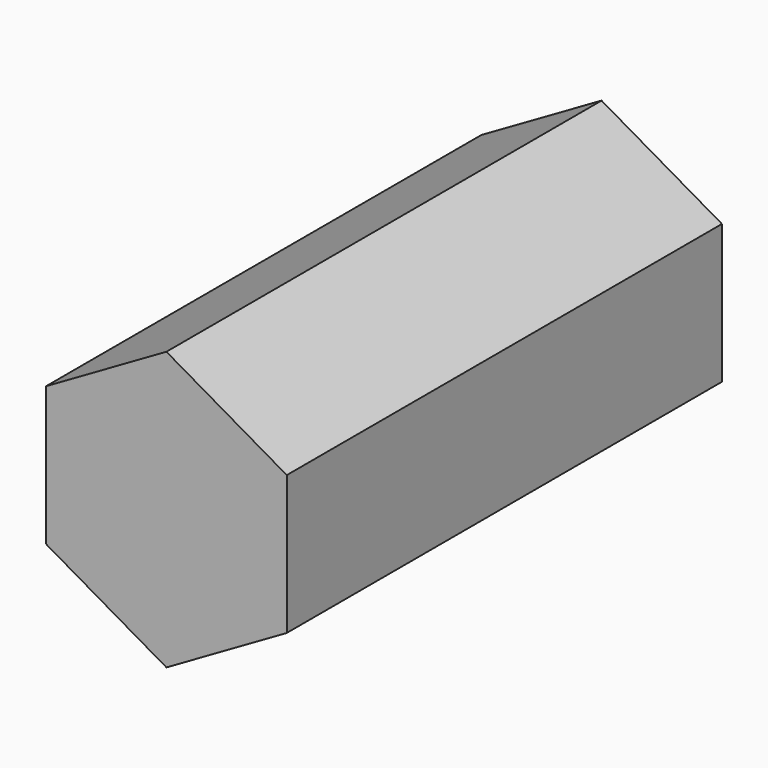
from build123d import *

# Parameters (mm, degrees)
F1_DEPTH = 25.4
F2_DEPTH = 127


with BuildPart() as f1:
    # F0 (on Front) → F1 (new body)
    with BuildSketch(Plane.XZ):
        Polygon((-33.718813, 19.467566), (-33.718813, -19.467566), (0, -38.935132), (33.718813, -19.467566), (33.718813, 19.467566), (0, 38.935132), align=None)
    extrude(amount=F1_DEPTH)

    # F1_face (on face) → F2 (join)
    with BuildSketch(Plane.XZ.offset(25.4)):
        Polygon((-33.718813, 19.467566), (-33.718813, -19.467566), (0, -38.935132), (33.718813, -19.467566), (33.718813, 19.467566), (0, 38.935132), align=None)
    extrude(amount=F2_DEPTH)


solid = f1.part
